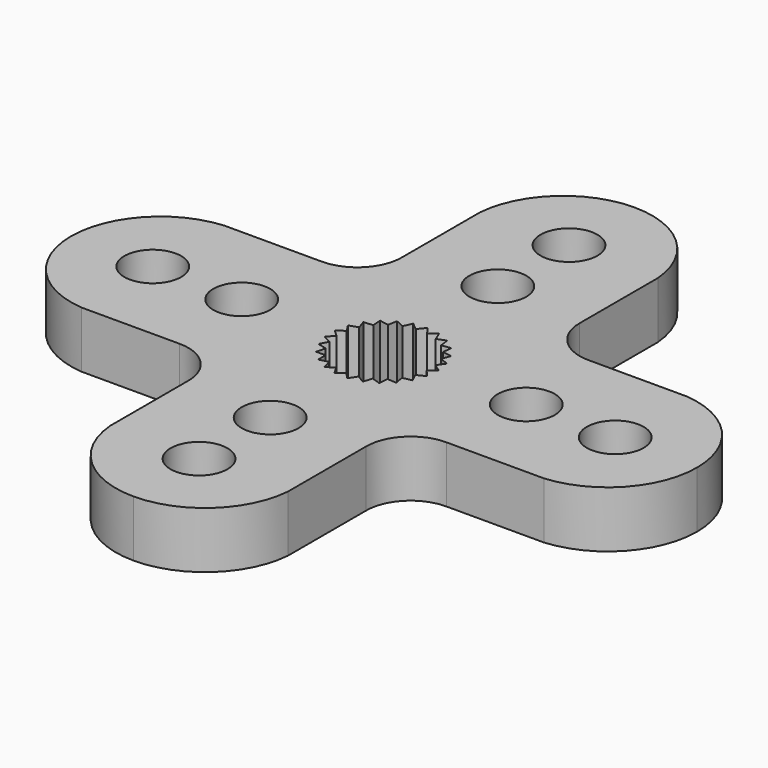
from build123d import *

# Parameters (mm, degrees)
F0_R     = 1.6
F1_DEPTH = 3.175


with BuildPart() as f1:
    # F0 (on Top) → F1 (new body)
    with BuildSketch(Plane.XY):
        with BuildLine():
            Line((5, 7.5), (5, 13))
            ThreePointArc((5, 13), (3.397058, 16.275063), (0, 17.6))
            ThreePointArc((0, 17.6), (-3.397058, 16.275063), (-5, 13))
            Line((-5, 13), (-5, 7.5))
            ThreePointArc((-5, 7.5), (-5.732233, 5.732233), (-7.5, 5))
            Line((-7.5, 5), (-13, 5))
            ThreePointArc((-13, 5), (-16.275063, 3.397058), (-17.6, 0))
            ThreePointArc((-17.6, 0), (-16.275063, -3.397058), (-13, -5))
            Line((-13, -5), (-7.5, -5))
            ThreePointArc((-7.5, -5), (-5.732233, -5.732233), (-5, -7.5))
            Line((-5, -7.5), (-5, -13))
            ThreePointArc((-5, -13), (-3.397058, -16.275063), (0, -17.6))
            ThreePointArc((0, -17.6), (3.397058, -16.275063), (5, -13))
            Line((5, -13), (5, -7.5))
            ThreePointArc((5, -7.5), (5.732233, -5.732233), (7.5, -5))
            Line((7.5, -5), (13, -5))
            ThreePointArc((13, -5), (16.275063, -3.397058), (17.6, 0))
            ThreePointArc((17.6, 0), (16.275063, 3.397058), (13, 5))
            Line((13, 5), (7.5, 5))
            ThreePointArc((7.5, 5), (5.732233, 5.732233), (5, 7.5))
        make_face()
        with Locations((0, -13)):
            Circle(F0_R, mode=Mode.SUBTRACT)
        with Locations((0, -8)):
            Circle(F0_R, mode=Mode.SUBTRACT)
        with Locations((-13, 0)):
            Circle(F0_R, mode=Mode.SUBTRACT)
        with Locations((-8, 0)):
            Circle(F0_R, mode=Mode.SUBTRACT)
        Polygon((-2.313127, 1.150841), (-2.481189, 1.651718), (-1.954254, 1.689937), (-1.992473, 2.216873), (-1.472587, 2.122848), (-1.378562, 2.642733), (-0.898392, 2.422372), (-0.678031, 2.902541), (-0.267748, 2.56969), (0.065104, 2.979972), (0.37972, 2.555544), (0.804147, 2.87016), (1.003328, 2.380825), (1.492663, 2.580005), (1.563894, 2.056509), (2.08739, 2.12774), (2.026194, 1.602976), (2.550958, 1.54178), (2.361181, 1.048721), (2.85424, 0.858945), (2.547807, 0.428572), (2.97818, 0.122139), (2.574344, -0.218506), (2.914989, -0.622342), (2.439126, -0.851855), (2.668639, -1.327718), (2.150649, -1.431678), (2.254609, -1.949669), (1.727038, -1.921544), (1.698914, -2.449115), (1.194912, -2.290672), (1.036469, -2.794674), (0.587704, -2.515869), (0.308899, -2.964634), (-0.056431, -2.582985), (-0.43808, -2.948314), (-0.69702, -2.487802), (-1.157533, -2.746742), (-1.293813, -2.236301), (-1.804254, -2.372581), (-1.809311, -1.844285), (-2.337607, -1.849342), (-2.211123, -1.336386), (-2.724079, -1.209903), (-2.474002, -0.744517), (-2.939388, -0.494441), (-2.581431, -0.105868), (-2.970004, 0.252089), (-2.526659, 0.539434), (-2.814004, 0.982779), align=None, mode=Mode.SUBTRACT)
        with Locations((8, 0)):
            Circle(F0_R, mode=Mode.SUBTRACT)
        with Locations((0, 8)):
            Circle(F0_R, mode=Mode.SUBTRACT)
        with Locations((13, 0)):
            Circle(F0_R, mode=Mode.SUBTRACT)
        with Locations((0, 13)):
            Circle(F0_R, mode=Mode.SUBTRACT)
    extrude(amount=F1_DEPTH)


solid = f1.part
